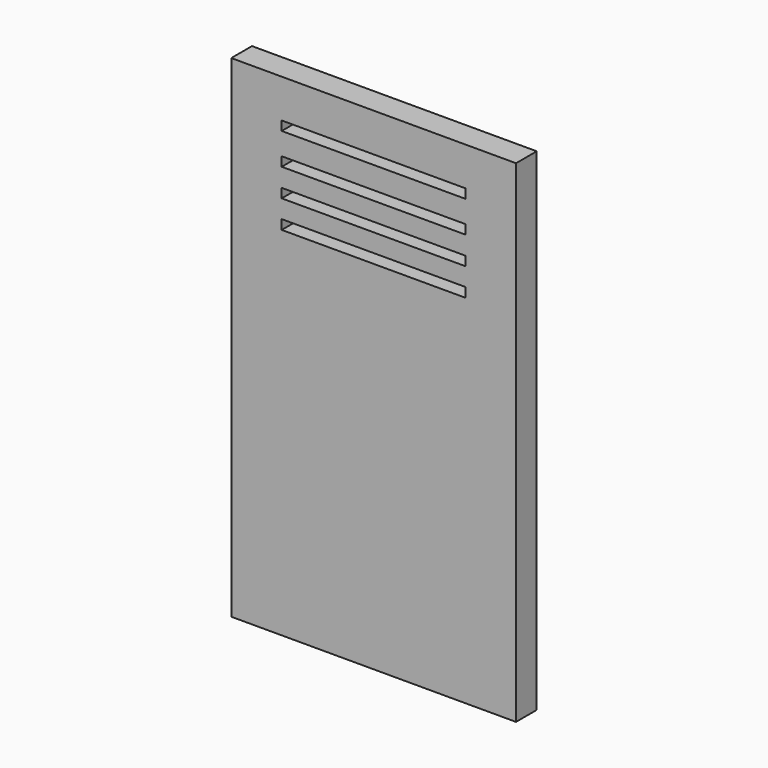
from build123d import *

# Parameters (mm, degrees)
F0_W     = 279.4
F0_H     = 482.6
F0_W_2   = 180.34
F0_H_2   = 9.333409
F0_H_3   = 9.09394
F0_H_4   = 9.093925
F1_DEPTH = 25.4
F2_DEPTH = 25.4


with BuildPart() as f1:
    # F0 (on Front) → F1 (new body)
    with BuildSketch(Plane.XZ):
        Rectangle(F0_W, F0_H)
        with Locations((-0.043589, 113.601674)):
            Rectangle(F0_W_2, F0_H_2, mode=Mode.SUBTRACT)
        with Locations((-0.043589, 140.737757)):
            Rectangle(F0_W_2, F0_H_3, mode=Mode.SUBTRACT)
        with Locations((-0.043589, 168.019548)):
            Rectangle(F0_W_2, F0_H_3, mode=Mode.SUBTRACT)
        with Locations((-0.043589, 198.938913)):
            Rectangle(F0_W_2, F0_H_4, mode=Mode.SUBTRACT)
    extrude(amount=F1_DEPTH)

    # F0 (on Front) → F2 (join)
    with BuildSketch(Plane.XZ):
        Rectangle(F0_W, F0_H)
        with Locations((-0.043589, 113.601674)):
            Rectangle(F0_W_2, F0_H_2, mode=Mode.SUBTRACT)
        with Locations((-0.043589, 140.737757)):
            Rectangle(F0_W_2, F0_H_3, mode=Mode.SUBTRACT)
        with Locations((-0.043589, 168.019548)):
            Rectangle(F0_W_2, F0_H_3, mode=Mode.SUBTRACT)
        with Locations((-0.043589, 198.938913)):
            Rectangle(F0_W_2, F0_H_4, mode=Mode.SUBTRACT)
    extrude(amount=F2_DEPTH)


solid = f1.part
